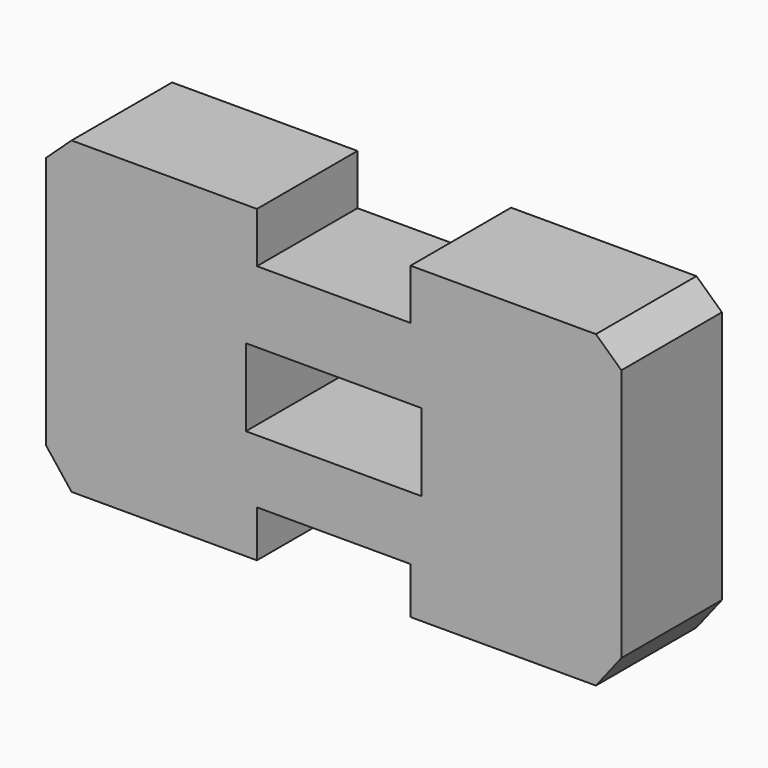
from build123d import *

# Parameters (mm, degrees)
F1_DEPTH = 25
F2_W     = 34.969408
F2_H     = 15.419583
F3_DEPTH = 25


with BuildPart() as f1:
    # F0 (on Front) → F1 (new body)
    with BuildSketch(Plane.XZ):
        Polygon((15.279747, 22.047983), (0, 22.047983), (-15.279747, 22.047983), (-15.279747, 32.078233), (-52.158151, 32.078233), (-57.22541, 27.396761), (-57.22541, 12.758005), (-57.22541, -22.994338), (-52.158151, -29.46917), (-15.279747, -29.46917), (-15.279747, -20.179192), (0, -20.179192), (15.279747, -20.179192), (15.279747, -29.46917), (52.158151, -29.46917), (57.22541, -22.994338), (57.22541, 12.758005), (57.22541, 27.396761), (52.158151, 32.078233), (15.279747, 32.078233), align=None)
    extrude(amount=F1_DEPTH)

    # F2 (on face) → F3 (cut)
    with BuildSketch(Plane.XZ.offset(25)):
        with Locations((0, 0.137676)):
            Rectangle(F2_W, F2_H)
    extrude(amount=-F3_DEPTH, mode=Mode.SUBTRACT)


solid = f1.part
